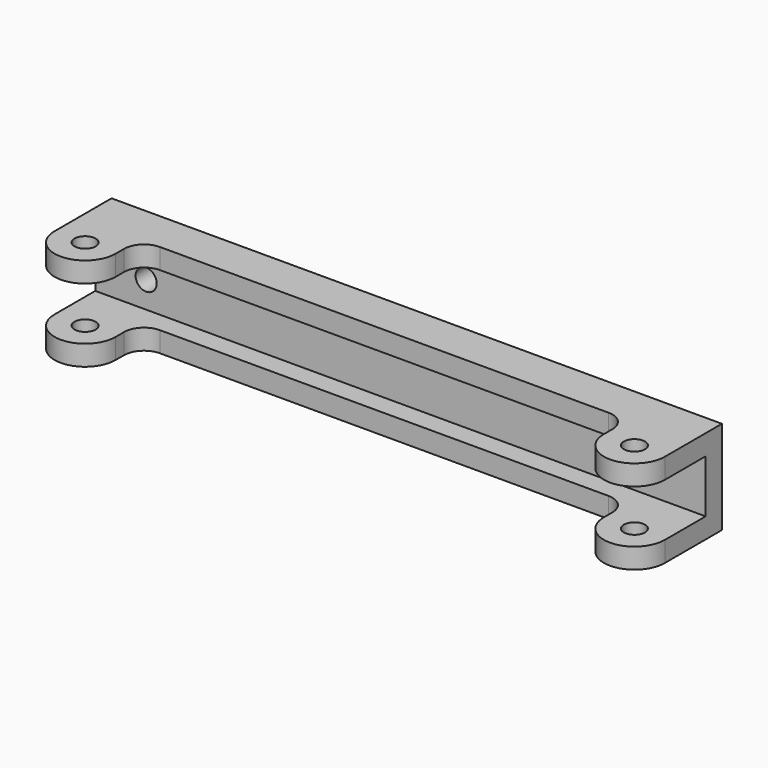
from build123d import *

# Parameters (mm, degrees)
F0_R     = 2.6
F1_DEPTH = 23
F2_W     = 12.5
F2_H     = 13
F2_W_2   = 16.9316109251
F3_DEPTH = 150.001
F4_R     = 2.6
F5_DEPTH = 25.001


with BuildPart() as f1:
    # F0 (on Top) → F1 (new body)
    with BuildSketch(Plane.XY):
        with BuildLine():
            Line((75, -5), (75, 12.5))
            Line((75, 12.5), (-75, 12.5))
            Line((-75, 12.5), (-75, -5))
            ThreePointArc((-75, -5), (-67.5, -12.5), (-60, -5))
            Line((-60, -5), (-60, -2.4001719305))
            ThreePointArc((-60, -2.4001719305), (-58.5647992072, 1.0646753177), (-55.0999320596, 2.499828069))
            Line((-55.0999320596, 2.499828069), (55.1000685735, 2.4983001034))
            ThreePointArc((55.1000685735, 2.4983001034), (58.5648478814, 1.0630993111), (60.0000006331, -2.4016998961))
            Line((60.0000006331, -2.4016998961), (60.0000006331, -4.9969182812))
            ThreePointArc((60.0000006331, -4.9969182812), (67.4984591406, -12.4999998417), (75, -5))
        make_face()
        with Locations((-67.5, -5)):
            Circle(F0_R, mode=Mode.SUBTRACT)
        with Locations((67.5, -5)):
            Circle(F0_R, mode=Mode.SUBTRACT)
    extrude(amount=F1_DEPTH)

    # F2 (on face) → F3 (cut, through all)
    with BuildSketch(Plane(origin=(-75, 0, 0), x_dir=(0, -1, 0), z_dir=(-1, 0, 0))):
        with Locations((-1.25, 11.5)):
            Rectangle(F2_W, F2_H)
        with Locations((13.4658054625, 11.5)):
            Rectangle(F2_W_2, F2_H)
    extrude(amount=-F3_DEPTH, mode=Mode.SUBTRACT)

    # F4 (on face) → F5 (cut, through all)
    with BuildSketch(Plane(origin=(0, 12.5, 0), x_dir=(-1, 0, 0), z_dir=(0, 1, 0))):
        with Locations((62.5, 11.5)):
            Circle(F4_R)
        with Locations((-62.5, 11.5)):
            Circle(F4_R)
    extrude(amount=-F5_DEPTH, mode=Mode.SUBTRACT)


solid = f1.part
